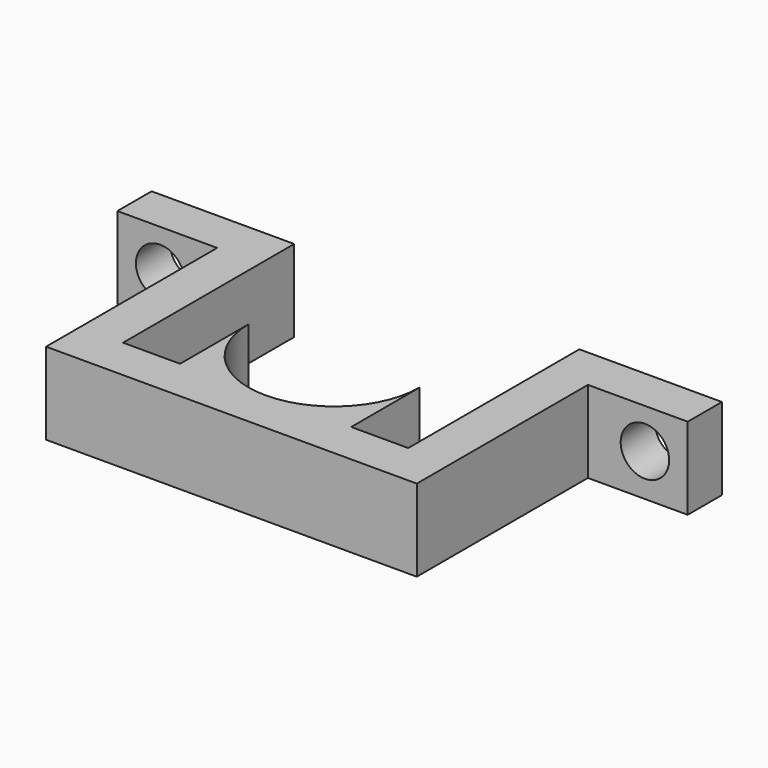
from build123d import *

# Parameters (mm, degrees)
PAD032_DEPTH  = 5.75
SKETCH096_W   = 3
SKETCH096_H   = 5.75
PAD033_DEPTH  = 18
SKETCH097_W   = 7
SKETCH097_H   = 3
PAD034_DEPTH  = 5.75
SKETCH098_R   = 1.7
HOLE019_DEPTH = 25


with BuildPart() as part:
    # Sketch095 → Pad032 (new body)
    with BuildSketch(Plane.XY):
        with BuildLine():
            Line((-10, 0), (-10, -3))
            Line((-10, -3), (10, -3))
            Line((10, -3), (10, 0))
            Line((10, 0), (6, 0))
            Line((6, 6), (6, 0))
            ThreePointArc((-6, 6), (0, 0), (6, 6))
            Line((-6, 0), (-6, 6))
            Line((-6, 0), (-10, 0))
        make_face()
    extrude(amount=PAD032_DEPTH)

    # Sketch096 → Pad033 (join)
    with BuildSketch(Plane.XZ.offset(3)):
        with Locations((-11.5, 2.875)):
            Rectangle(SKETCH096_W, SKETCH096_H)
        with Locations((11.5, 2.875)):
            Rectangle(SKETCH096_W, SKETCH096_H)
    extrude(amount=-PAD033_DEPTH)

    # Sketch097 (on Face7 of Pad033) → Pad034 (join)
    with BuildSketch(Plane.XY.offset(5.75)):
        with Locations((-16.5, 13.5)):
            Rectangle(SKETCH097_W, SKETCH097_H)
        with Locations((16.5, 13.5)):
            Rectangle(SKETCH097_W, SKETCH097_H)
    extrude(amount=-PAD034_DEPTH)

    # Sketch098 (on Face26 of Pad034) → Hole019 (cut)
    with BuildSketch(Plane.XZ.offset(-12)):
        with Locations((-17, 2.95)):
            Circle(SKETCH098_R)
        with Locations((17, 2.95)):
            Circle(SKETCH098_R)
    extrude(amount=-HOLE019_DEPTH, mode=Mode.SUBTRACT)


with BuildPart() as part_1:
    # Body014 placement: moved
    add(part.part.moved(Location((0, 114, 205.555))))


solid = part_1.part
